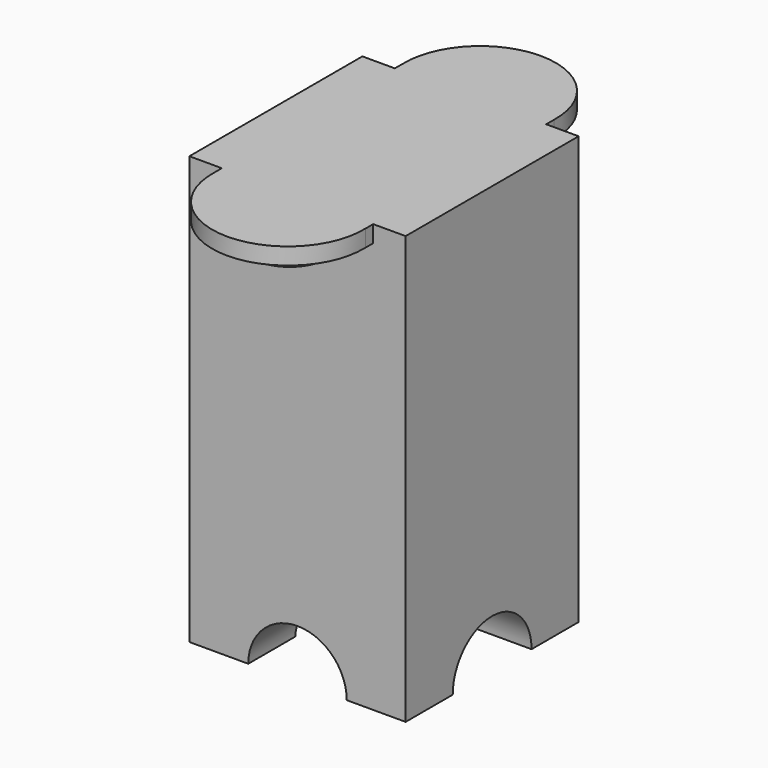
from build123d import *

# Parameters (mm, degrees)
F0_W      = 45
F0_H      = 45
F1_DEPTH  = 89
F2_R      = 10.25
F3_DEPTH  = 25
F4_R      = 10.25
F5_DEPTH  = 27.5
F6_R      = 15.75
F7_DEPTH  = 3.5
F9_D      = 2.794
F9_DEPTH  = 26
F9_TIP    = 0.8394022848
F13_D     = 2.794
F13_DEPTH = 26
F13_TIP   = 0.8394022848
F14_D     = 2.794
F14_DEPTH = 26
F14_TIP   = 0.8394022848
F15_D     = 2.794
F15_DEPTH = 26
F15_TIP   = 0.8394022848
F16_W     = 31.5
F16_H     = 49
F17_DEPTH = 3.5
F18_R     = 8
F19_DEPTH = 8


with BuildPart() as f1:
    # F0 (on Top) → F1 (new body)
    with BuildSketch(Plane.XY):
        Rectangle(F0_W, F0_H)
    extrude(amount=F1_DEPTH)

    # F2 (on Front) → F3 (cut, symmetric)
    with BuildSketch(Plane.XZ):
        Circle(F2_R)
    extrude(amount=F3_DEPTH, both=True, mode=Mode.SUBTRACT)

    # F4 (on Right) → F5 (cut, symmetric)
    with BuildSketch(Plane.YZ):
        Circle(F4_R)
    extrude(amount=F5_DEPTH, both=True, mode=Mode.SUBTRACT)

    # F6 (on face) → F7 (join)
    with BuildSketch(Plane.XY.offset(89)):
        with Locations((0, 25)):
            Circle(F6_R)
        with Locations((0, -25)):
            Circle(F6_R)
    extrude(amount=-F7_DEPTH)

    # F9
    with Locations(Plane(origin=(0, 0, 0), x_dir=(1, 0, 0), z_dir=(0, 0, -1))):
        with Locations((16.375, 16.375)):
            Hole(F9_D / 2, depth=F9_DEPTH)
            with Locations((0, 0, -(F9_DEPTH + F9_TIP / 2))):  # 118° drill point
                Cone(0, F9_D / 2, F9_TIP, mode=Mode.SUBTRACT)

    # F13
    with Locations(Plane(origin=(0, 0, 0), x_dir=(1, 0, 0), z_dir=(0, 0, -1))):
        with Locations((16.375, -16.375)):
            Hole(F13_D / 2, depth=F13_DEPTH)
            with Locations((0, 0, -(F13_DEPTH + F13_TIP / 2))):  # 118° drill point
                Cone(0, F13_D / 2, F13_TIP, mode=Mode.SUBTRACT)

    # F14
    with Locations(Plane(origin=(0, 0, 0), x_dir=(1, 0, 0), z_dir=(0, 0, -1))):
        with Locations((-16.375, -16.375)):
            Hole(F14_D / 2, depth=F14_DEPTH)
            with Locations((0, 0, -(F14_DEPTH + F14_TIP / 2))):  # 118° drill point
                Cone(0, F14_D / 2, F14_TIP, mode=Mode.SUBTRACT)

    # F15
    with Locations(Plane(origin=(0, 0, 0), x_dir=(1, 0, 0), z_dir=(0, 0, -1))):
        with Locations((-16.375, 16.375)):
            Hole(F15_D / 2, depth=F15_DEPTH)
            with Locations((0, 0, -(F15_DEPTH + F15_TIP / 2))):  # 118° drill point
                Cone(0, F15_D / 2, F15_TIP, mode=Mode.SUBTRACT)

    # F16 (on face) → F17 (join)
    with BuildSketch(Plane.XY.offset(89)):
        Rectangle(F16_W, F16_H)
    extrude(amount=-F17_DEPTH)

    # F18 (on face) → F19 (join)
    with BuildSketch(Plane.XY.offset(89)):
        with Locations((0, 24.5)):
            Circle(F18_R)
        with Locations((0, -24.5)):
            Circle(F18_R)
    extrude(amount=-F19_DEPTH)


solid = f1.part
